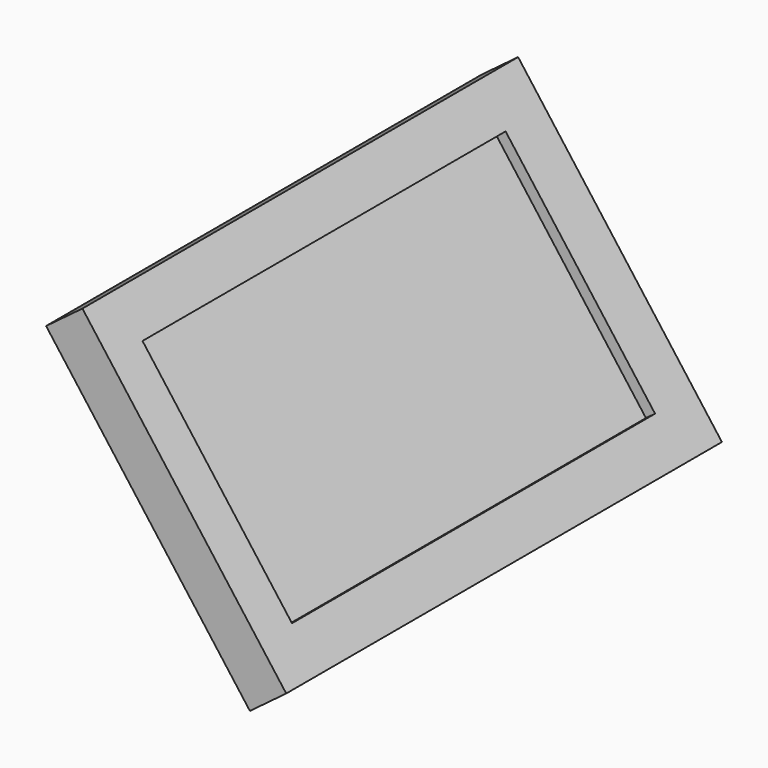
from build123d import *

# Parameters (mm, degrees)
BOX002_W               = 55
BOX002_H               = 100
BOX002_DEPTH           = 10
SKETCH010_W            = 75
SKETCH010_H            = 120
PAD009_DEPTH           = 10
CUT037_ROLL_ANGLE      = 5e-06
CUT037_PITCH_ANGLE     = 53.219477
CUT037_PLACEMENT_ANGLE = 9e-06


with BuildPart() as box002:
    # Box002 → Box002 (new body)
    with BuildSketch(Plane(origin=(-115, 45.8, 7.5), x_dir=(1, 0, 0), z_dir=(0, 0, 1))):
        with Locations((27.5, 50)):
            Rectangle(BOX002_W, BOX002_H)
    extrude(amount=BOX002_DEPTH)


with BuildPart() as display:
    # Sketch010 → Pad009 (new body)
    with BuildSketch(Plane.XY):
        with Locations((-87.509099, 96.743134)):
            Rectangle(SKETCH010_W, SKETCH010_H)
    extrude(amount=PAD009_DEPTH)

    # Cut037: cut Box002
    add(box002.part, mode=Mode.SUBTRACT)


with BuildPart() as display_1:
    # Cut037 roll: moved
    add(display.part.rotate(Axis((0, 0, 0), (1, 0, 0)), CUT037_ROLL_ANGLE))


with BuildPart() as display_2:
    # Cut037 pitch: moved
    add(display_1.part.rotate(Axis((0, 0, 0), (0, 1, 0)), CUT037_PITCH_ANGLE))


with BuildPart() as display_3:
    # Cut037 placement: moved
    add(display_2.part.moved(Location((-34.792314, -97.00353, 121.476113))).rotate(Axis((-34.792314, -97.00353, 121.476113), (0, 0, 1)), CUT037_PLACEMENT_ANGLE))


solid = display_3.part
